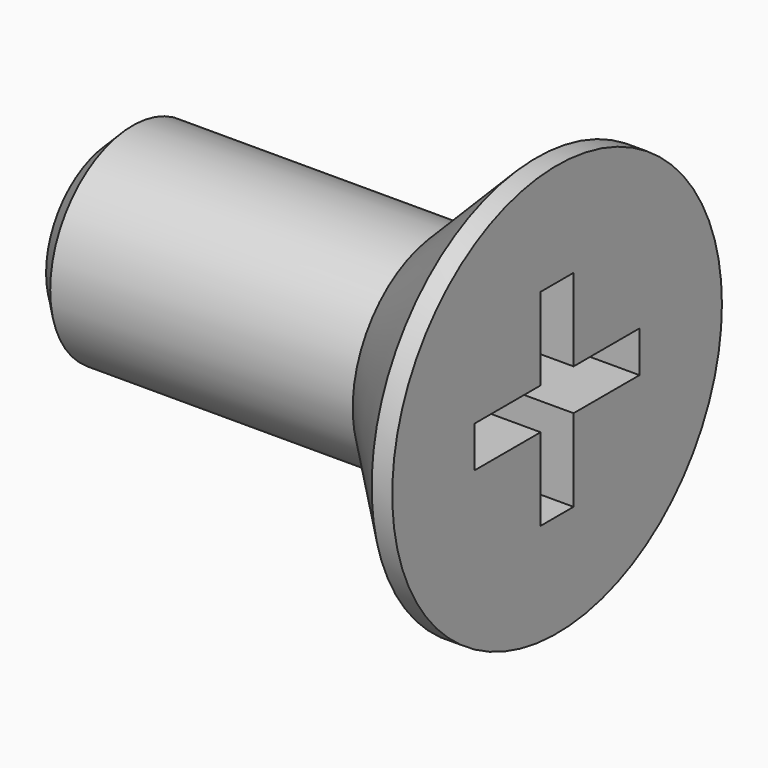
from build123d import *

# Parameters (mm, degrees)
F0_R     = 5
F1_DEPTH = 2.8
F2_R     = 2.5
F3_DEPTH = 8
F4_SIZE  = 2.3
F5_SIZE  = 0.5
F7_DEPTH = 2


with BuildPart() as f1:
    # F0 (on Right) → F1 (new body)
    with BuildSketch(Plane.YZ):
        Circle(F0_R)
    extrude(amount=-F1_DEPTH)

    # F2 (on face) → F3 (join)
    with BuildSketch(Plane(origin=(-2.8, 0, 0), x_dir=(0, -1, 0), z_dir=(-1, 0, 0))):
        Circle(F2_R)
    extrude(amount=F3_DEPTH)

    # F4
    f4_edges = [f1.edges().sort_by_distance(p)[0] for p in [
        (-2.8, -5, 0),
    ]]
    chamfer(f4_edges, length=F4_SIZE)

    # F5
    f5_edges = [f1.edges().sort_by_distance(p)[0] for p in [
        (-10.8, 2.5, 0),
    ]]
    chamfer(f5_edges, length=F5_SIZE)

    # F6 (on face) → F7 (cut)
    with BuildSketch(Plane.YZ):
        Polygon((0.5, 2.5), (0, 2.5), (-0.5, 2.5), (-0.5, 0.5), (-2.5, 0.5), (-2.5, 0), (-2.5, -0.5), (-0.5, -0.5), (-0.5, -2.5), (0, -2.5), (0.5, -2.5), (0.5, -0.5), (2.5, -0.5), (2.5, 0), (2.5, 0.5), (0.5, 0.5), align=None)
    extrude(amount=-F7_DEPTH, mode=Mode.SUBTRACT)


solid = f1.part
